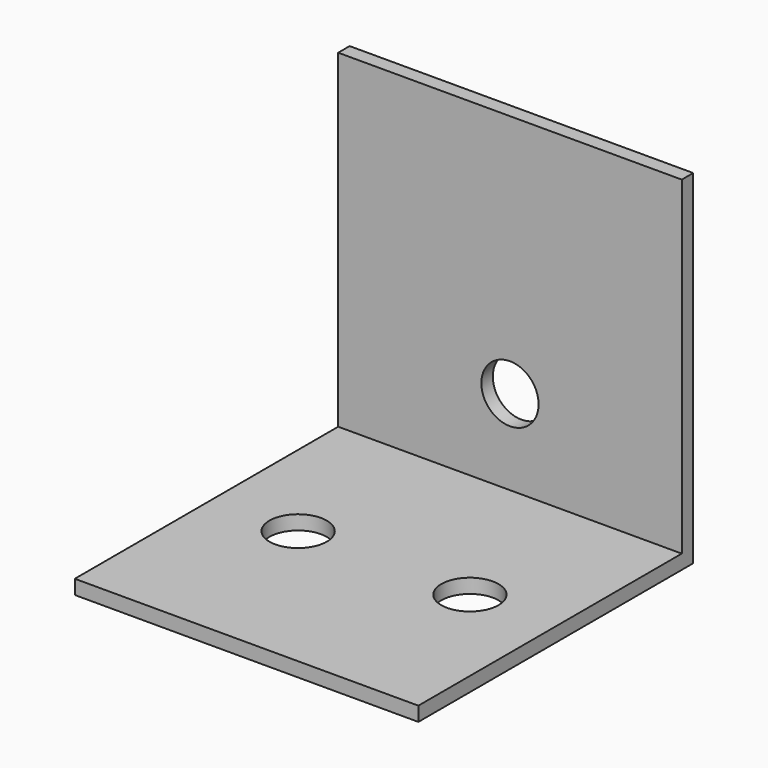
from build123d import *

# Parameters (mm, degrees)
F1_DEPTH = 38.1
F3_D     = 6.35
F5_D     = 6.35


with BuildPart() as f1:
    # F0 (on Right) → F1 (new body)
    with BuildSketch(Plane.YZ):
        Polygon((0, 1.5875), (0, 0), (38.1, 0), (38.1, 1.5875), (38.1, 38.1), (36.5125, 38.1), (36.5125, 1.5875), align=None)
    extrude(amount=F1_DEPTH)

    # F3 (through all)
    with Locations(Plane.XZ.offset(-36.5125)):
        with Locations((19.05, 11)):
            Hole(F3_D / 2)

    # F5 (through all)
    with Locations(Plane(origin=(0, 0, 0), x_dir=(1, 0, 0), z_dir=(0, 0, -1))):
        with Locations((9.525, -19.05), (28.575, -19.05)):
            Hole(F5_D / 2)


solid = f1.part
